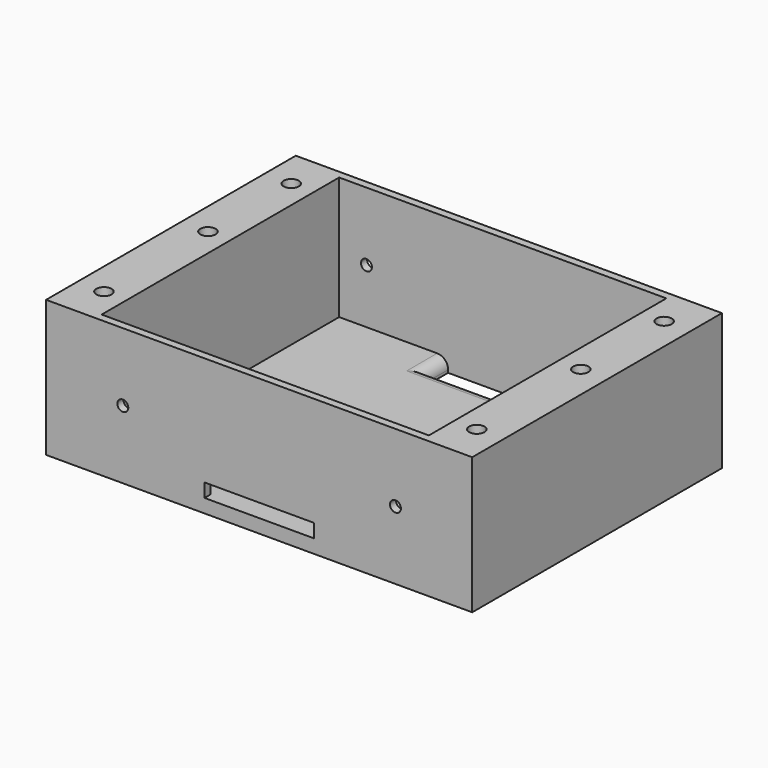
from build123d import *

# Parameters (mm, degrees)
F0_W     = 146.05
F0_H     = 114.3
F0_R     = 3.24
F0_W_2   = 5
F1_DEPTH = 50
F2_W     = 119.824
F2_H     = 108.7
F3_DEPTH = 45
F4_D     = 5.6
F4_DEPTH = 20
F4_TIP   = 1.6824097333
F5_W     = 40
F5_H     = 5
F6_DEPTH = 2.8
F7_D     = 4
F8_W     = 40
F8_H     = 10
F9_DEPTH = 50.001
F10_R    = 4


with BuildPart() as f1:
    # F0 (on Top) → F1 (new body)
    with BuildSketch(Plane.XY):
        Rectangle(F0_W, F0_H)
        with Locations((-68.262, -42.862)):
            Circle(F0_R, mode=Mode.SUBTRACT)
        with Locations((68.262, -42.862)):
            Circle(F0_R, mode=Mode.SUBTRACT)
        with Locations((-68.262, 4.763)):
            Circle(F0_R, mode=Mode.SUBTRACT)
        with BuildLine():
            Line((-72.225, -1.587), (-68.262, -1.587))
            ThreePointArc((-68.262, -1.587), (-61.912, 4.763), (-68.262, 11.113))
            Line((-68.262, 11.113), (-72.225, 11.113))
            Line((-72.225, 11.113), (-72.225, 36.512))
            Line((-72.225, 36.512), (-68.262, 36.512))
            ThreePointArc((-68.262, 36.512), (-61.912, 42.862), (-68.262, 49.212))
            Line((-68.262, 49.212), (-72.225, 49.212))
            Line((-72.225, 49.212), (-72.225, 56.35))
            Line((-72.225, 56.35), (72.225, 56.35))
            Line((72.225, 56.35), (72.225, 49.212))
            Line((72.225, 49.212), (68.262, 49.212))
            ThreePointArc((68.262, 49.212), (61.912, 42.862), (68.262, 36.512))
            Line((68.262, 36.512), (72.225, 36.512))
            Line((72.225, 36.512), (72.225, 11.113))
            Line((72.225, 11.113), (68.262, 11.113))
            ThreePointArc((68.262, 11.113), (61.912, 4.763), (68.262, -1.587))
            Line((68.262, -1.587), (72.225, -1.587))
            Line((72.225, -1.587), (72.225, -36.512))
            Line((72.225, -36.512), (68.262, -36.512))
            ThreePointArc((68.262, -36.512), (61.912, -42.862), (68.262, -49.212))
            Line((68.262, -49.212), (72.225, -49.212))
            Line((72.225, -49.212), (72.225, -56.35))
            Line((72.225, -56.35), (-72.225, -56.35))
            Line((-72.225, -56.35), (-72.225, -49.212))
            Line((-72.225, -49.212), (-68.262, -49.212))
            ThreePointArc((-68.262, -49.212), (-61.912, -42.862), (-68.262, -36.512))
            Line((-68.262, -36.512), (-72.225, -36.512))
            Line((-72.225, -36.512), (-72.225, -1.587))
        make_face(mode=Mode.SUBTRACT)
        with Locations((-68.262, 42.862)):
            Circle(F0_R, mode=Mode.SUBTRACT)
        with Locations((68.262, 4.763)):
            Circle(F0_R, mode=Mode.SUBTRACT)
        with Locations((68.262, 42.862)):
            Circle(F0_R, mode=Mode.SUBTRACT)
        with Locations((75.525, 0)):
            Rectangle(F0_W_2, F0_H)
        with Locations((-75.525, 0)):
            Rectangle(F0_W_2, F0_H)
        with Locations((-68.262, 4.763)):
            Circle(F0_R)
        with Locations((-68.262, 42.862)):
            Circle(F0_R)
        with Locations((68.262, 42.862)):
            Circle(F0_R)
        with BuildLine():
            ThreePointArc((-68.262, 11.113), (-61.912, 4.763), (-68.262, -1.587))
            Line((-68.262, -1.587), (-72.225, -1.587))
            Line((-72.225, -1.587), (-72.225, -36.512))
            Line((-72.225, -36.512), (-68.262, -36.512))
            ThreePointArc((-68.262, -36.512), (-61.912, -42.862), (-68.262, -49.212))
            Line((-68.262, -49.212), (-72.225, -49.212))
            Line((-72.225, -49.212), (-72.225, -56.35))
            Line((-72.225, -56.35), (72.225, -56.35))
            Line((72.225, -56.35), (72.225, -49.212))
            Line((72.225, -49.212), (68.262, -49.212))
            ThreePointArc((68.262, -49.212), (61.912, -42.862), (68.262, -36.512))
            Line((68.262, -36.512), (72.225, -36.512))
            Line((72.225, -36.512), (72.225, -1.587))
            Line((72.225, -1.587), (68.262, -1.587))
            ThreePointArc((68.262, -1.587), (61.912, 4.763), (68.262, 11.113))
            Line((68.262, 11.113), (72.225, 11.113))
            Line((72.225, 11.113), (72.225, 36.512))
            Line((72.225, 36.512), (68.262, 36.512))
            ThreePointArc((68.262, 36.512), (61.912, 42.862), (68.262, 49.212))
            Line((68.262, 49.212), (72.225, 49.212))
            Line((72.225, 49.212), (72.225, 56.35))
            Line((72.225, 56.35), (-72.225, 56.35))
            Line((-72.225, 56.35), (-72.225, 49.212))
            Line((-72.225, 49.212), (-68.262, 49.212))
            ThreePointArc((-68.262, 49.212), (-61.912, 42.862), (-68.262, 36.512))
            Line((-68.262, 36.512), (-72.225, 36.512))
            Line((-72.225, 36.512), (-72.225, 11.113))
            Line((-72.225, 11.113), (-68.262, 11.113))
        make_face()
        with Locations((68.262, 4.763)):
            Circle(F0_R)
        with Locations((68.262, -42.862)):
            Circle(F0_R)
        with Locations((-68.262, -42.862)):
            Circle(F0_R)
    extrude(amount=-F1_DEPTH)

    # F2 (on face) → F3 (cut)
    with BuildSketch(Plane.XY):
        Rectangle(F2_W, F2_H)
    extrude(amount=-F3_DEPTH, mode=Mode.SUBTRACT)

    # F4
    with Locations(Plane.XY):
        with Locations((-68.262, 42.862), (-68.262, 4.763), (-68.262, -42.862), (68.262, -42.862), (68.262, 4.763), (68.262, 42.862)):
            Hole(F4_D / 2, depth=F4_DEPTH)
            with Locations((0, 0, -(F4_DEPTH + F4_TIP / 2))):  # 118° drill point
                Cone(0, F4_D / 2, F4_TIP, mode=Mode.SUBTRACT)

    # F5 (on face) → F6 (cut, through all)
    with BuildSketch(Plane.XZ.offset(57.15)):
        with Locations((0, -42.5)):
            Rectangle(F5_W, F5_H)
    extrude(amount=-F6_DEPTH, mode=Mode.SUBTRACT)

    # F7 (through all)
    with Locations(Plane.XZ.offset(57.15)):
        with Locations((-49.912, -25), (49.912, -25)):
            Hole(F7_D / 2)

    # F8 (on face) → F9 (cut, through all)
    with BuildSketch(Plane.XY):
        with Locations((0, 49.35)):
            Rectangle(F8_W, F8_H)
    extrude(amount=-F9_DEPTH, mode=Mode.SUBTRACT)

    # F10
    f10_edges = [f1.edges().sort_by_distance(p)[0] for p in [
        (-20, 49.35, -45),
        (0, 44.35, -45),
        (20, 49.35, -45),
    ]]
    fillet(f10_edges, radius=F10_R)


solid = f1.part
